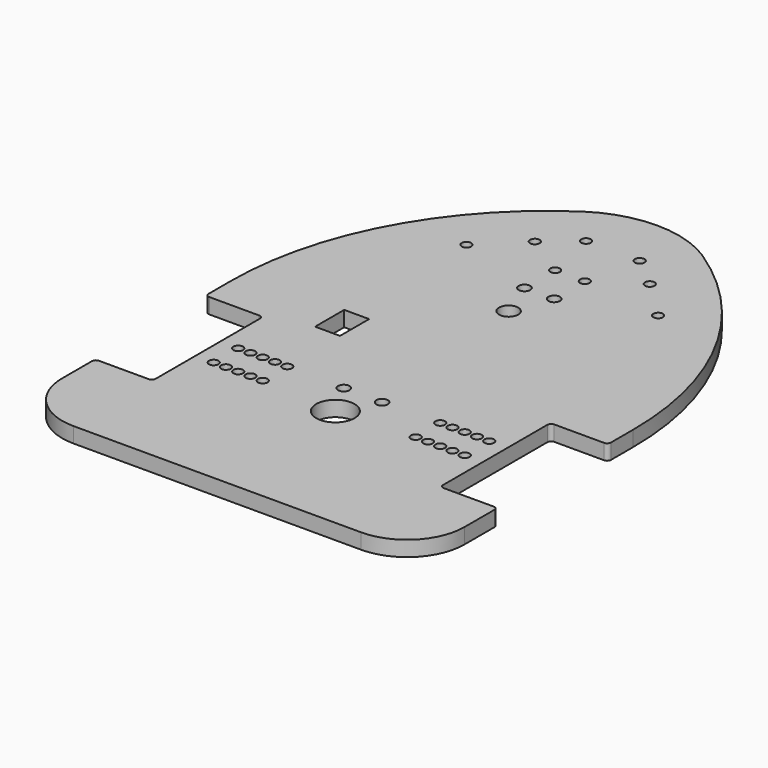
from build123d import *

# Parameters (mm, degrees)
F0_R     = 2.5
F0_R_2   = 3
F0_W     = 13
F0_H     = 19
F0_R_3   = 10
F0_R_4   = 5
F1_DEPTH = 8
F2_R     = 30
F3_R     = 2


with BuildPart() as f1:
    # F0 (on Top) → F1 (new body)
    with BuildSketch(Plane.XY):
        with BuildLine():
            Line((-105, -88.5), (-105, -140))
            Line((-105, -140), (105, -140))
            Line((105, -140), (105, -88.5))
            Line((105, -88.5), (75, -88.5))
            Line((75, -88.5), (75, -16.5))
            Line((75, -16.5), (105, -16.5))
            Line((105, -16.5), (105, 0))
            ThreePointArc((105, 0), (85.327217, 78.134499), (31, 137.637204))
            ThreePointArc((31, 137.637204), (0, 146.835757), (-31, 137.637204))
            ThreePointArc((-31, 137.637204), (-85.327217, 78.134499), (-105, 0))
            Line((-105, 0), (-105, -16.5))
            Line((-105, -16.5), (-75, -16.5))
            Line((-75, -16.5), (-75, -88.5))
            Line((-75, -88.5), (-105, -88.5))
        make_face()
        with Locations((-65.5, -60.5)):
            Circle(F0_R, mode=Mode.SUBTRACT)
        with Locations((-59.1, -60.5)):
            Circle(F0_R, mode=Mode.SUBTRACT)
        with Locations((-52.7, -60.5)):
            Circle(F0_R, mode=Mode.SUBTRACT)
        with Locations((-65.5, -44.5)):
            Circle(F0_R, mode=Mode.SUBTRACT)
        with Locations((-59.1, -44.5)):
            Circle(F0_R, mode=Mode.SUBTRACT)
        with Locations((-52.7, -44.5)):
            Circle(F0_R, mode=Mode.SUBTRACT)
        with Locations((-46.3, -60.5)):
            Circle(F0_R, mode=Mode.SUBTRACT)
        with Locations((-39.9, -60.5)):
            Circle(F0_R, mode=Mode.SUBTRACT)
        with Locations((-46.3, -44.5)):
            Circle(F0_R, mode=Mode.SUBTRACT)
        with Locations((-39.9, -44.5)):
            Circle(F0_R, mode=Mode.SUBTRACT)
        with Locations((-10, -45)):
            Circle(F0_R_2, mode=Mode.SUBTRACT)
        with Locations((-46.5, -0.5)):
            Rectangle(F0_W, F0_H, mode=Mode.SUBTRACT)
        with Locations((0, -63)):
            Circle(F0_R_3, mode=Mode.SUBTRACT)
        with Locations((10, -45)):
            Circle(F0_R_2, mode=Mode.SUBTRACT)
        with Locations((39.9, -60.5)):
            Circle(F0_R, mode=Mode.SUBTRACT)
        with Locations((46.3, -60.5)):
            Circle(F0_R, mode=Mode.SUBTRACT)
        with Locations((39.9, -44.5)):
            Circle(F0_R, mode=Mode.SUBTRACT)
        with Locations((46.3, -44.5)):
            Circle(F0_R, mode=Mode.SUBTRACT)
        with Locations((52.7, -60.5)):
            Circle(F0_R, mode=Mode.SUBTRACT)
        with Locations((59.1, -60.5)):
            Circle(F0_R, mode=Mode.SUBTRACT)
        with Locations((65.5, -60.5)):
            Circle(F0_R, mode=Mode.SUBTRACT)
        with Locations((52.7, -44.5)):
            Circle(F0_R, mode=Mode.SUBTRACT)
        with Locations((59.1, -44.5)):
            Circle(F0_R, mode=Mode.SUBTRACT)
        with Locations((65.5, -44.5)):
            Circle(F0_R, mode=Mode.SUBTRACT)
        with Locations((-7.75, 70)):
            Circle(F0_R_2, mode=Mode.SUBTRACT)
        with Locations((-50, 85)):
            Circle(F0_R, mode=Mode.SUBTRACT)
        with Locations((-30, 104.595918)):
            Circle(F0_R, mode=Mode.SUBTRACT)
        with Locations((-7.75, 90)):
            Circle(F0_R, mode=Mode.SUBTRACT)
        with Locations((-14, 118)):
            Circle(F0_R, mode=Mode.SUBTRACT)
        with Locations((0, 50)):
            Circle(F0_R_4, mode=Mode.SUBTRACT)
        with Locations((7.75, 70)):
            Circle(F0_R_2, mode=Mode.SUBTRACT)
        with Locations((7.75, 90)):
            Circle(F0_R, mode=Mode.SUBTRACT)
        with Locations((50, 85)):
            Circle(F0_R, mode=Mode.SUBTRACT)
        with Locations((30, 104.595918)):
            Circle(F0_R, mode=Mode.SUBTRACT)
        with Locations((14, 118)):
            Circle(F0_R, mode=Mode.SUBTRACT)
    extrude(amount=F1_DEPTH)

    # F2
    f2_edges = [f1.edges().sort_by_distance(p)[0] for p in [
        (-105, -140, 4),
        (105, -140, 4),
    ]]
    fillet(f2_edges, radius=F2_R)

    # F3
    f3_edges = [f1.edges().sort_by_distance(p)[0] for p in [
        (-75, -16.5, 4),
        (-105, -16.5, 4),
        (-75, -88.5, 4),
        (-105, -88.5, 4),
        (75, -16.5, 4),
        (105, -16.5, 4),
        (75, -88.5, 4),
        (105, -88.5, 4),
    ]]
    fillet(f3_edges, radius=F3_R)


solid = f1.part
